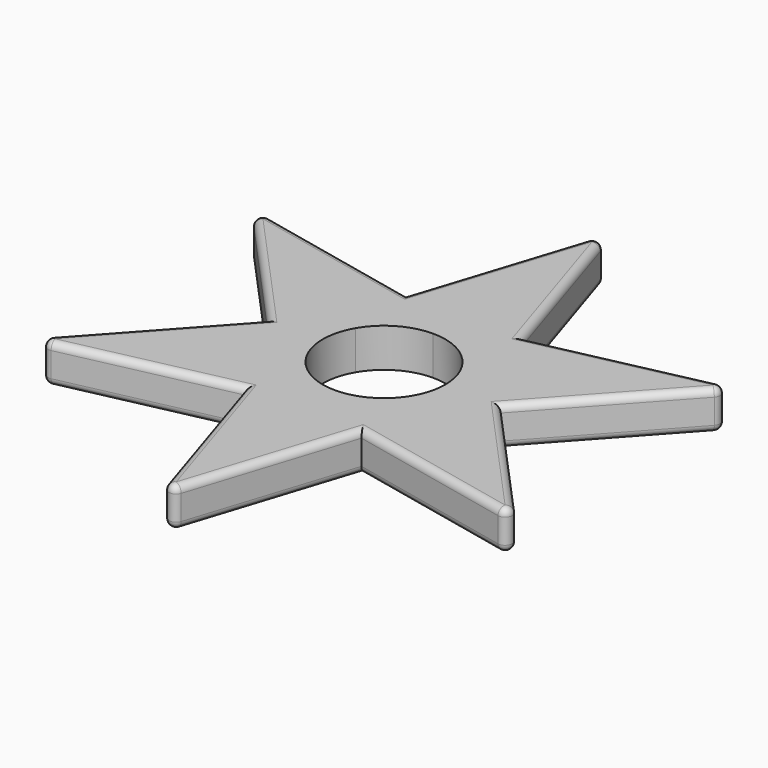
from build123d import *

# Parameters (mm, degrees)
F1_DEPTH = 6.985
F2_R     = 1.27
F3_R     = 1.27


with BuildPart() as f1:
    # F0 (on Top) → F1 (new body)
    with BuildSketch(Plane.XY):
        with BuildLine():
            Line((15.71625, 9.0737811682), (13.7528333371, 7.9402020293))
            ThreePointArc((13.7528333371, 7.9402020293), (15.3392924121, 4.1101510143), (15.8804040586, 0))
            ThreePointArc((15.8804040586, 0), (15.3392924121, -4.1101510143), (13.7528333371, -7.9402020293))
            Line((13.7528333371, -7.9402020293), (15.71625, -9.0737811682))
            Line((15.71625, -9.0737811682), (20.955, 0))
            Line((20.955, 0), (15.71625, 9.0737811682))
        make_face()
        with BuildLine():
            ThreePointArc((0, 15.8804040586), (7.9402020293, 13.7528333371), (13.7528333371, 7.9402020293))
            Line((13.7528333371, 7.9402020293), (15.71625, 9.0737811682))
            Line((15.71625, 9.0737811682), (10.4775, 18.1475623363))
            Line((10.4775, 18.1475623363), (0, 18.1475623363))
            Line((0, 18.1475623363), (0, 15.8804040586))
        make_face()
        with BuildLine():
            Line((15.71625, -9.0737811682), (13.7528333371, -7.9402020293))
            ThreePointArc((13.7528333371, -7.9402020293), (7.9402020293, -13.7528333371), (0, -15.8804040586))
            Line((0, -15.8804040586), (0, -18.1475623363))
            Line((0, -18.1475623363), (10.4775, -18.1475623363))
            Line((10.4775, -18.1475623363), (15.71625, -9.0737811682))
        make_face()
        with BuildLine():
            ThreePointArc((-13.7528333371, 7.9402020293), (-7.9402020293, 13.7528333371), (0, 15.8804040586))
            Line((0, 15.8804040586), (0, 18.1475623363))
            Line((0, 18.1475623363), (-10.4775, 18.1475623363))
            Line((-10.4775, 18.1475623363), (-15.71625, 9.0737811682))
            Line((-15.71625, 9.0737811682), (-13.7528333371, 7.9402020293))
        make_face()
        Polygon((10.4775, 18.1475623363), (15.71625, 9.0737811682), (43.9940905122, 25.4), align=None)
        Polygon((43.9940905122, 25.4), (15.71625, 9.0737811682), (20.955, 0), align=None)
        with BuildLine():
            Line((0, -18.1475623363), (0, -15.8804040586))
            ThreePointArc((0, -15.8804040586), (-7.9402020293, -13.7528333371), (-13.7528333371, -7.9402020293))
            Line((-13.7528333371, -7.9402020293), (-15.71625, -9.0737811682))
            Line((-15.71625, -9.0737811682), (-10.4775, -18.1475623363))
            Line((-10.4775, -18.1475623363), (0, -18.1475623363))
        make_face()
        Polygon((20.955, 0), (15.71625, -9.0737811682), (43.9940905122, -25.4), align=None)
        Polygon((43.9940905122, -25.4), (15.71625, -9.0737811682), (10.4775, -18.1475623363), align=None)
        with BuildLine():
            ThreePointArc((-13.7528333371, -7.9402020293), (-15.8804040586, 0), (-13.7528333371, 7.9402020293))
            Line((-13.7528333371, 7.9402020293), (-15.71625, 9.0737811682))
            Line((-15.71625, 9.0737811682), (-20.955, 0))
            Line((-20.955, 0), (-15.71625, -9.0737811682))
            Line((-15.71625, -9.0737811682), (-13.7528333371, -7.9402020293))
        make_face()
        Polygon((-10.4775, 18.1475623363), (0, 18.1475623363), (0, 50.8), align=None)
        Polygon((0, 50.8), (0, 18.1475623363), (10.4775, 18.1475623363), align=None)
        Polygon((10.4775, -18.1475623363), (0, -18.1475623363), (0, -50.8), align=None)
        Polygon((0, -50.8), (0, -18.1475623363), (-10.4775, -18.1475623363), align=None)
        Polygon((-20.955, 0), (-15.71625, 9.0737811682), (-43.9940905122, 25.4), align=None)
        Polygon((-43.9940905122, 25.4), (-15.71625, 9.0737811682), (-10.4775, 18.1475623363), align=None)
        Polygon((-10.4775, -18.1475623363), (-15.71625, -9.0737811682), (-43.9940905122, -25.4), align=None)
        Polygon((-43.9940905122, -25.4), (-15.71625, -9.0737811682), (-20.955, 0), align=None)
        with BuildLine():
            ThreePointArc((-9.5357191185, 5.50545), (-5.50545, 9.5357191185), (0, 11.0109))
            Line((0, 11.0109), (0, 15.8804040586))
            ThreePointArc((0, 15.8804040586), (-7.9402020293, 13.7528333371), (-13.7528333371, 7.9402020293))
            Line((-13.7528333371, 7.9402020293), (-9.5357191185, 5.50545))
        make_face()
        with BuildLine():
            ThreePointArc((0, 11.0109), (5.50545, 9.5357191185), (9.5357191185, 5.50545))
            Line((9.5357191185, 5.50545), (13.7528333371, 7.9402020293))
            ThreePointArc((13.7528333371, 7.9402020293), (7.9402020293, 13.7528333371), (0, 15.8804040586))
            Line((0, 15.8804040586), (0, 11.0109))
        make_face()
        with BuildLine():
            ThreePointArc((9.5357191185, 5.50545), (10.6357126807, 2.8498306237), (11.0109, 0))
            ThreePointArc((11.0109, 0), (10.6357126807, -2.8498306237), (9.5357191185, -5.50545))
            Line((9.5357191185, -5.50545), (13.7528333371, -7.9402020293))
            ThreePointArc((13.7528333371, -7.9402020293), (15.3392924121, -4.1101510143), (15.8804040586, 0))
            ThreePointArc((15.8804040586, 0), (15.3392924121, 4.1101510143), (13.7528333371, 7.9402020293))
            Line((13.7528333371, 7.9402020293), (9.5357191185, 5.50545))
        make_face()
        with BuildLine():
            Line((13.7528333371, -7.9402020293), (9.5357191185, -5.50545))
            ThreePointArc((9.5357191185, -5.50545), (5.50545, -9.5357191185), (0, -11.0109))
            Line((0, -11.0109), (0, -15.8804040586))
            ThreePointArc((0, -15.8804040586), (7.9402020293, -13.7528333371), (13.7528333371, -7.9402020293))
        make_face()
        with BuildLine():
            Line((0, -15.8804040586), (0, -11.0109))
            ThreePointArc((0, -11.0109), (-5.50545, -9.5357191185), (-9.5357191185, -5.50545))
            Line((-9.5357191185, -5.50545), (-13.7528333371, -7.9402020293))
            ThreePointArc((-13.7528333371, -7.9402020293), (-7.9402020293, -13.7528333371), (0, -15.8804040586))
        make_face()
        with BuildLine():
            ThreePointArc((-9.5357191185, -5.50545), (-11.0109, 0), (-9.5357191185, 5.50545))
            Line((-9.5357191185, 5.50545), (-13.7528333371, 7.9402020293))
            ThreePointArc((-13.7528333371, 7.9402020293), (-15.8804040586, 0), (-13.7528333371, -7.9402020293))
            Line((-13.7528333371, -7.9402020293), (-9.5357191185, -5.50545))
        make_face()
    extrude(amount=F1_DEPTH)

    # F2
    f2_edges = [f1.edges().sort_by_distance(p)[0] for p in [
        (0, 50.8, 3.4925),
        (-43.994091, -25.4, 3.4925),
        (-43.994091, 25.4, 3.4925),
        (0, -50.8, 3.4925),
        (43.994091, -25.4, 3.4925),
        (43.994091, 25.4, 3.4925),
    ]]
    fillet(f2_edges, radius=F2_R)

    # F3
    f3_edges = [f1.edges().sort_by_distance(p)[0] for p in [
        (31.145007, -11.234219, 6.985),
        (5.843385, -32.589477, 6.985),
        (-25.301622, -21.355258, 6.985),
        (-31.145007, 11.234219, 6.985),
        (25.301622, 21.355258, 6.985),
        (-5.843385, 32.589477, 6.985),
        (25.301622, 21.355258, 0),
        (25.301622, -21.355258, 0),
        (5.843385, -32.589477, 0),
        (-25.301622, -21.355258, 0),
        (-31.145007, 11.234219, 0),
        (5.843385, 32.589477, 0),
    ]]
    fillet(f3_edges, radius=F3_R)


solid = f1.part
